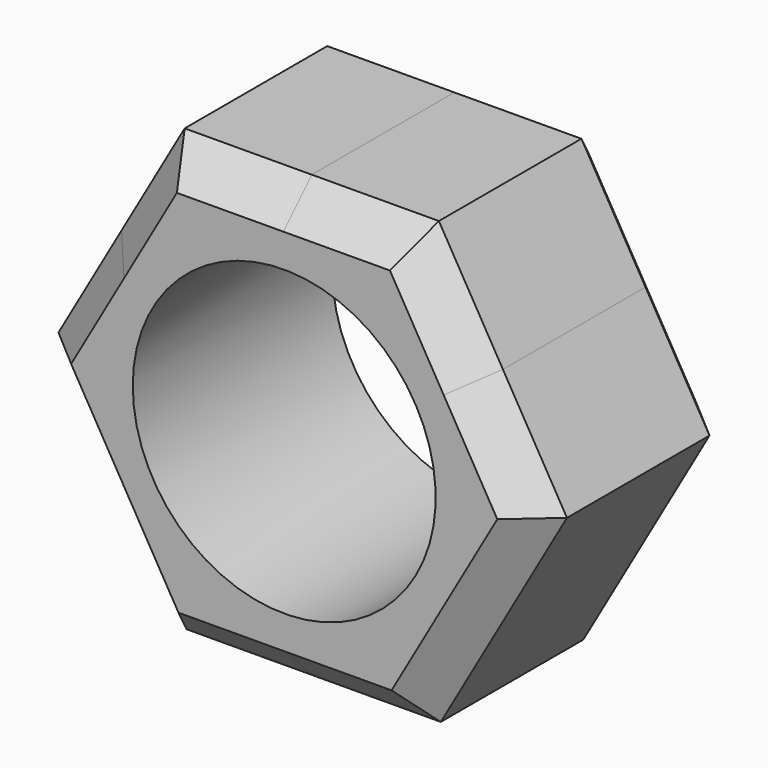
from build123d import *

# Parameters (mm, degrees)
F1_DEPTH = 7
F2_SIZE  = 1
F3_SIZE  = 1
F4_D     = 8.5


with BuildPart() as f1:
    # F0 (on Front) → F1 (new body)
    with BuildSketch(Plane.XZ):
        with BuildLine():
            ThreePointArc((5.3637862302, -3.0659549776), (5.9711339811, -1.5861404815), (6.178210311, 0))
            ThreePointArc((6.178210311, 0), (5.9642239682, 1.6119290011), (5.3370880527, 3.1121975781))
            ThreePointArc((5.3370880527, 3.1121975781), (3.0659549821, 5.3637862276), (-0.0266982871, 6.1781526243))
            ThreePointArc((-0.0266982871, 6.1781526243), (-3.1121976822, 5.337087992), (-5.3637862362, 3.065954967))
            ThreePointArc((-5.3637862362, 3.065954967), (-6.1781526243, -0.0266982826), (-5.3370879532, -3.1121977488))
            ThreePointArc((-5.3370879532, -3.1121977488), (-3.0659548546, -5.3637863004), (0.026698383, -6.1781526239))
            ThreePointArc((0.026698383, -6.1781526239), (3.1121977184, -5.3370879709), (5.3637862302, -3.0659549776))
        make_face()
        with BuildLine():
            ThreePointArc((5.3370880527, 3.1121975781), (5.9642239682, 1.6119290011), (6.178210311, 0))
            ThreePointArc((6.178210311, 0), (5.9711339811, -1.5861404815), (5.3637862302, -3.0659549776))
            Line((5.3637862302, -3.0659549776), (7.1339161613, 0.0308285647))
            Line((7.1339161613, 0.0308285647), (5.3370880527, 3.1121975781))
        make_face()
        with BuildLine():
            ThreePointArc((-0.0266982871, 6.1781526243), (3.0659549821, 5.3637862276), (5.3370880527, 3.1121975781))
            Line((5.3370880527, 3.1121975781), (3.5402597604, 6.1935669065))
            Line((3.5402597604, 6.1935669065), (-0.0266982871, 6.1781526243))
        make_face()
        with BuildLine():
            Line((3.5936564009, -6.1627383418), (5.3637862302, -3.0659549776))
            ThreePointArc((5.3637862302, -3.0659549776), (3.1121977184, -5.3370879709), (0.026698383, -6.1781526239))
            Line((0.026698383, -6.1781526239), (3.5936564009, -6.1627383418))
        make_face()
        with BuildLine():
            ThreePointArc((-5.3637862362, 3.065954967), (-3.1121976822, 5.337087992), (-0.0266982871, 6.1781526243))
            Line((-0.0266982871, 6.1781526243), (-3.5936564009, 6.1627383418))
            Line((-3.5936564009, 6.1627383418), (-5.3637862362, 3.065954967))
        make_face()
        with BuildLine():
            Line((-3.5402597604, -6.1935669065), (0.026698383, -6.1781526239))
            ThreePointArc((0.026698383, -6.1781526239), (-3.0659548546, -5.3637863004), (-5.3370879532, -3.1121977488))
            Line((-5.3370879532, -3.1121977488), (-3.5402597604, -6.1935669065))
        make_face()
        with BuildLine():
            ThreePointArc((-5.3370879532, -3.1121977488), (-6.1781526243, -0.0266982826), (-5.3637862362, 3.065954967))
            Line((-5.3637862362, 3.065954967), (-7.1339161613, -0.0308285647))
            Line((-7.1339161613, -0.0308285647), (-5.3370879532, -3.1121977488))
        make_face()
    extrude(amount=F1_DEPTH)

    # F2
    f2_edges = [f1.edges().sort_by_distance(p)[0] for p in [
        (-5.363786, -7, 3.065955),
        (-0.026698, -7, 6.178153),
        (5.337088, -7, 3.112198),
        (5.363786, -7, -3.065955),
        (0.026698, -7, -6.178153),
        (-5.337088, -7, -3.112198),
    ]]
    chamfer(f2_edges, length=F2_SIZE)

    # F3
    f3_edges = [f1.edges().sort_by_distance(p)[0] for p in [
        (5.337088, 0, 3.112198),
        (-0.026698, 0, 6.178153),
        (-5.363786, 0, 3.065955),
        (-5.337088, 0, -3.112198),
        (0.026698, 0, -6.178153),
        (5.363786, 0, -3.065955),
    ]]
    chamfer(f3_edges, length=F3_SIZE)

    # F4 (through all)
    with Locations(Plane(origin=(0, 0, 0), x_dir=(1, 0, 0), z_dir=(0, 1, 0))):
        with Locations((0, 0)):
            Hole(F4_D / 2)


solid = f1.part
